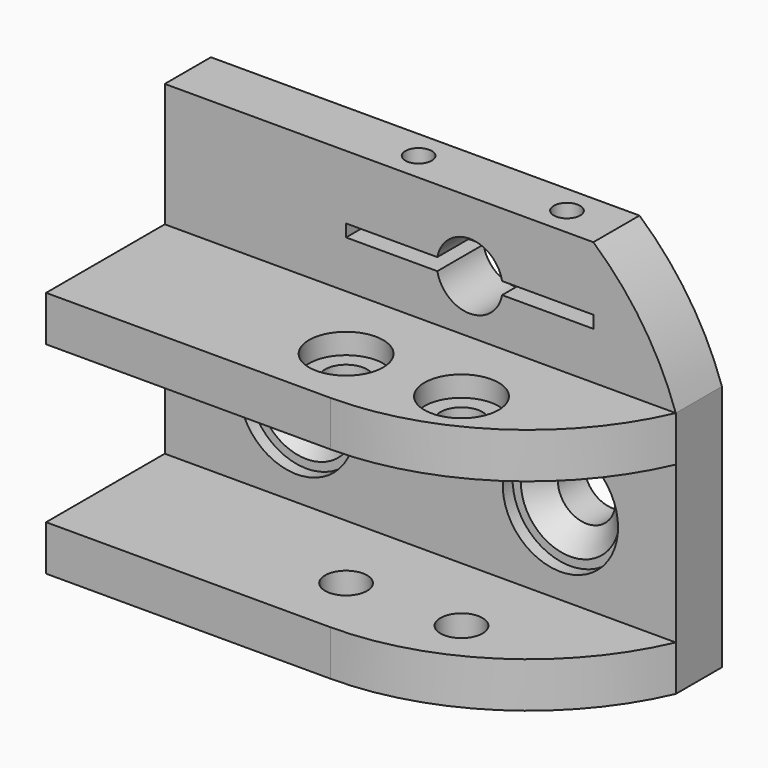
from build123d import *

# Parameters (mm, degrees)
SKETCH_W             = 62
SKETCH_H             = 25
PAD_DEPTH            = 15
SKETCH001_W          = 18
SKETCH001_H          = 19
POCKET_DEPTH         = 37.001
POCKET_DEPTH_BACK    = -25.001
SKETCH002_R          = 2.55
POCKET001_DEPTH      = 15.001
POCKET001_DEPTH_BACK = -15.001
SKETCH003_W          = 62
SKETCH003_H          = 7
PAD001_DEPTH         = 30
SKETCH004_R          = 4
POCKET002_DEPTH      = 12.501
SKETCH005_W          = 1
SKETCH005_H          = 11.6
PAD002_DEPTH         = 16.8
PAD002_DEPTH_BACK    = 26.8
SKETCH012_W          = 20.4
SKETCH012_H          = 1
POCKET003_DEPTH      = 11.6
SKETCH013_R          = 3.5
POCKET004_DEPTH      = 26.001
POCKET005_DEPTH      = 15.001
POCKET005_DEPTH_BACK = -30.001
POCKET006_DEPTH      = 13.501
SKETCH016_R          = 7
POCKET007_DEPTH      = 7
CHAMFER_SIZE         = 2.49
POCKET008_DEPTH      = 2.5
SKETCH019_R          = 4.5
POCKET009_DEPTH      = 2.5
SKETCH020_W          = 30
SKETCH020_H          = 1.5
POCKET010_DEPTH      = 8.001
SKETCH021_R          = 1.25
POCKET011_DEPTH      = 22
SKETCH022_R          = 1.6
POCKET012_DEPTH      = 8


with BuildPart() as part:
    # Sketch → Pad (new body, symmetric)
    with BuildSketch(Plane.XY):
        with Locations((-6, 0)):
            Rectangle(SKETCH_W, SKETCH_H)
    extrude(amount=PAD_DEPTH, both=True)

    # Sketch001 → Pocket (cut, two sides)
    with BuildSketch(Plane.YZ) as pocket_sk:
        with Locations((-3.5, 0)):
            Rectangle(SKETCH001_W, SKETCH001_H)
    extrude(amount=-POCKET_DEPTH, mode=Mode.SUBTRACT)
    extrude(pocket_sk.sketch, amount=-POCKET_DEPTH_BACK, mode=Mode.SUBTRACT)

    # Sketch002 → Pocket001 (cut, two sides)
    with BuildSketch(Plane.XY) as pocket001_sk:
        with Locations((-7, -4.5)):
            Circle(SKETCH002_R)
        with Locations((7, -4.5)):
            Circle(SKETCH002_R)
    extrude(amount=-POCKET001_DEPTH, mode=Mode.SUBTRACT)
    extrude(pocket001_sk.sketch, amount=-POCKET001_DEPTH_BACK, mode=Mode.SUBTRACT)

    # Sketch003 → Pad001 (join)
    with BuildSketch(Plane.XY):
        with Locations((-6, 9)):
            Rectangle(SKETCH003_W, SKETCH003_H)
    extrude(amount=PAD001_DEPTH)

    # Sketch004 → Pocket002 (cut, through all)
    with BuildSketch(Plane.XZ):
        with Locations((0, 21.5)):
            Circle(SKETCH004_R)
    extrude(amount=-POCKET002_DEPTH, mode=Mode.SUBTRACT)

    # Sketch005 → Pad002 (join, two sides)
    with BuildSketch(Plane.YZ) as pad002_sk:
        with Locations((13, 0.5)):
            Rectangle(SKETCH005_W, SKETCH005_H)
    extrude(amount=PAD002_DEPTH)
    extrude(pad002_sk.sketch, amount=-PAD002_DEPTH_BACK)

    # Sketch012 (on Face10 of Pad002) → Pocket003 (cut)
    with BuildSketch(Plane(origin=(0, 0, -5.3), x_dir=(1, 0, 0), z_dir=(0, 0, -1))):
        with Locations((-5, -13)):
            Rectangle(SKETCH012_W, SKETCH012_H)
    extrude(amount=-POCKET003_DEPTH, mode=Mode.SUBTRACT)

    # Sketch013 (on Face22 of Pocket003) → Pocket004 (cut, through all)
    with BuildSketch(Plane(origin=(0, 13.5, 0), x_dir=(-1, 0, 0), z_dir=(0, 1, 0))):
        with Locations((-11, 0.5)):
            Circle(SKETCH013_R)
        with Locations((21, 0.5)):
            Circle(SKETCH013_R)
    extrude(amount=-POCKET004_DEPTH, mode=Mode.SUBTRACT)

    # Sketch014 → Pocket005 (cut, two sides)
    with BuildSketch(Plane.XY) as pocket005_sk:
        with BuildLine():
            ThreePointArc((-2.495494, -12.5), (13.936206, -7.599812), (25, 5.5))
            Line((25, 5.5), (25, -12.5))
            Line((25, -12.5), (-2.495494, -12.5))
        make_face()
    extrude(amount=-POCKET005_DEPTH, mode=Mode.SUBTRACT)
    extrude(pocket005_sk.sketch, amount=-POCKET005_DEPTH_BACK, mode=Mode.SUBTRACT)

    # Sketch015 → Pocket006 (cut, through all)
    with BuildSketch(Plane.XZ):
        with BuildLine():
            ThreePointArc((25, 15), (20.982341, 23.154894), (15, 30))
            Line((25, 30), (15, 30))
            Line((25, 15), (25, 30))
        make_face()
    extrude(amount=-POCKET006_DEPTH, mode=Mode.SUBTRACT)

    # Sketch016 → Pocket007 (cut)
    with BuildSketch(Plane.XZ):
        with Locations((-21, 0.5)):
            Circle(SKETCH016_R)
        with Locations((11, 0.5)):
            Circle(SKETCH016_R)
    extrude(amount=-POCKET007_DEPTH, mode=Mode.SUBTRACT)

    # Chamfer
    chamfer_edges = [part.edges().sort_by_distance(p)[0] for p in [
        (-17.5, 7, 0.5),
        (14.5, 7, 0.5),
    ]]
    chamfer(chamfer_edges, length=CHAMFER_SIZE)

    # Sketch018 → Pocket008 (cut)
    with BuildSketch(Plane(origin=(0, 0, -15), x_dir=(1, 0, 0), z_dir=(0, 0, -1))):
        Polygon((-9.338269, 0.45), (-4.661731, 0.45), (-2.323463, 4.5), (-4.661731, 8.55), (-9.338269, 8.55), (-11.676537, 4.5), align=None)
        Polygon((9.338269, 0.45), (11.676537, 4.5), (9.338269, 8.55), (4.661731, 8.55), (2.323463, 4.5), (4.661731, 0.45), align=None)
    extrude(amount=-POCKET008_DEPTH, mode=Mode.SUBTRACT)

    # Sketch019 → Pocket009 (cut)
    with BuildSketch(Plane.XY.offset(15)):
        with Locations((-7, -4.5)):
            Circle(SKETCH019_R)
        with Locations((7, -4.5)):
            Circle(SKETCH019_R)
    extrude(amount=-POCKET009_DEPTH, mode=Mode.SUBTRACT)

    # Sketch020 (on Face40 of Pocket009) → Pocket010 (cut, through all)
    with BuildSketch(Plane.XZ.offset(-5.5)):
        with Locations((0, 21.5)):
            Rectangle(SKETCH020_W, SKETCH020_H)
    extrude(amount=-POCKET010_DEPTH, mode=Mode.SUBTRACT)

    # Sketch021 (on Face39 of Pocket010) → Pocket011 (cut)
    with BuildSketch(Plane.XY.offset(30)):
        with Locations((9, 9)):
            Circle(SKETCH021_R)
        with Locations((-9, 9)):
            Circle(SKETCH021_R)
    extrude(amount=-POCKET011_DEPTH, mode=Mode.SUBTRACT)

    # Sketch022 (on Face39 of Pocket011) → Pocket012 (cut)
    with BuildSketch(Plane.XY.offset(30)):
        with Locations((-9, 9)):
            Circle(SKETCH022_R)
        with Locations((9, 9)):
            Circle(SKETCH022_R)
    extrude(amount=-POCKET012_DEPTH, mode=Mode.SUBTRACT)


solid = part.part
